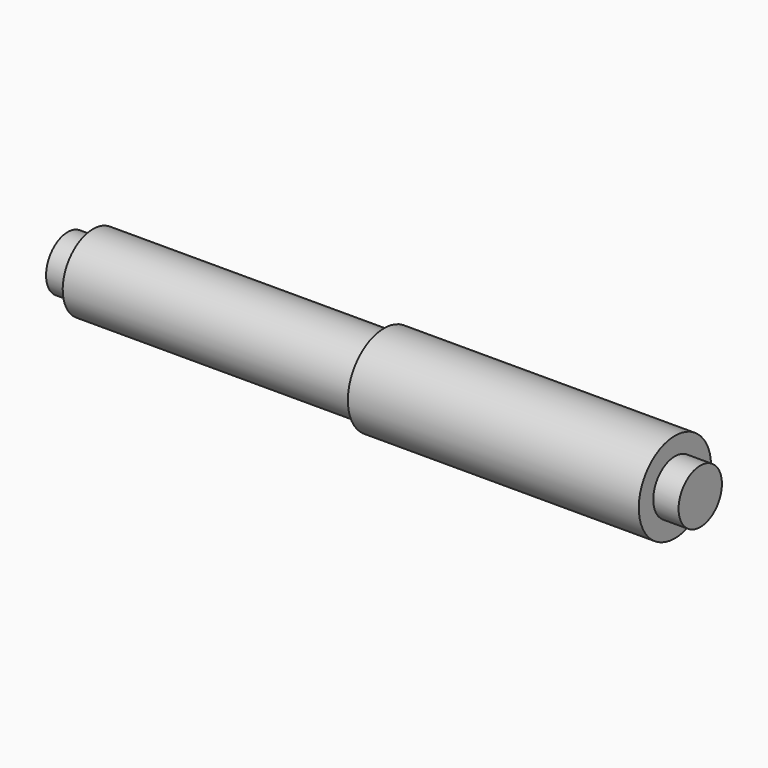
from build123d import *

# Parameters (mm, degrees)
F0_W = 7
F0_H = 7.5


with BuildPart() as f1:
    # F0 (on Front) → F1 (revolve)
    with BuildSketch(Plane.XZ):
        with Locations((-84, -3.75)):
            Rectangle(F0_W, F0_H)
        Polygon((-80.5, -10.5), (0, -10.5), (0, 0), (-60.51527, 0), (-80.5, 0), (-80.5, -7.5), align=None)
        Polygon((0, -12.5), (80.5, -12.5), (80.5, -7.5), (80.5, 0), (0, 0), (0, -10.5), align=None)
        with Locations((84, -3.75)):
            Rectangle(F0_W, F0_H)
    revolve(axis=Axis((0, 0, 0), (1, 0, 0)))


solid = f1.part
